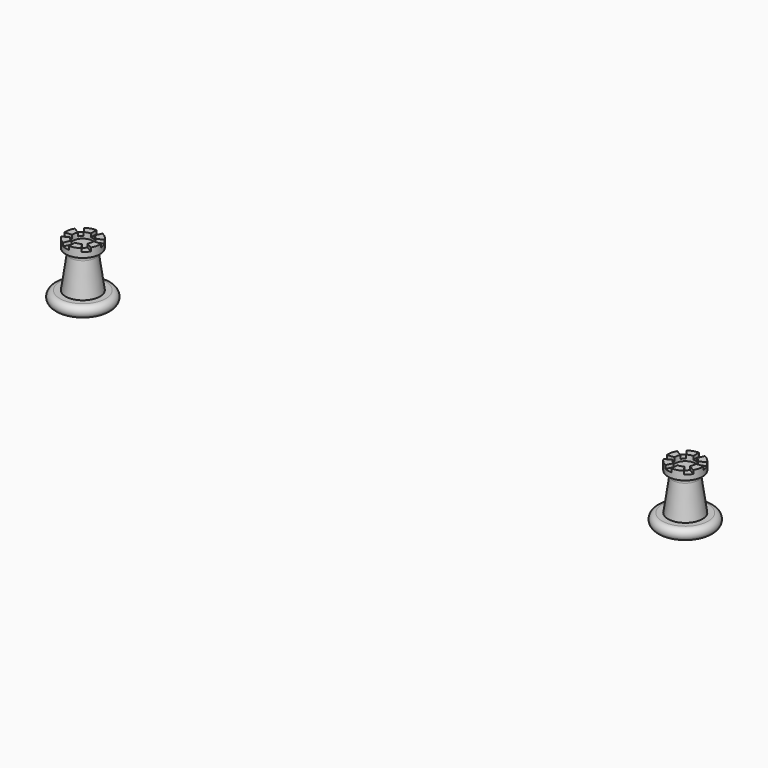
from build123d import *

# Parameters (mm, degrees)
SKETCH011_R        = 4
SKETCH009_R        = 6
SKETCH010_R        = 6
EXTRUDE002_DEPTH   = 3
SKETCH012_R        = 3.5
POCKET_DEPTH       = 5
POCKET001_DEPTH    = 1.2
POLARPATTERN_COUNT = 6
FILLET_R           = 1.5
SKETCH026_R        = 3.05
POCKET007_DEPTH    = 3.1
ARRAY003_X_COUNT   = 2
ARRAY003_X_PITCH   = 210


with BuildPart() as revolution001006:
    # Sketch013 → Revolution001006 (revolve)
    with BuildSketch(Plane.XZ):
        with BuildLine():
            Line((0, 0), (8, 0))
            ThreePointArc((8, 0), (10, 2), (8, 4))
            Line((8, 4), (0, 4))
            Line((0, 4), (0, 0))
        make_face()
    revolve(axis=Axis((0, 0, 0), (0, 0, 1)))


with BuildPart() as loft_body:
    # Sketch011 → Loft section 0
    with BuildSketch(Plane.XY.offset(18)):
        Circle(SKETCH011_R)
    # Sketch009 → Loft section 1
    with BuildSketch(Plane.XY.offset(4)):
        Circle(SKETCH009_R)
    loft()


with BuildPart() as array003:
    # Sketch010 → Extrude002 (new body)
    with BuildSketch(Plane.XY.offset(17)):
        Circle(SKETCH010_R)
    extrude(amount=EXTRUDE002_DEPTH)

    # Sketch012 → Pocket (cut)
    with BuildSketch(Plane.XY.offset(20)):
        Circle(SKETCH012_R)
    extrude(amount=-POCKET_DEPTH, mode=Mode.SUBTRACT)

    # Sketch014 → Pocket001 (cut)
    with BuildSketch(Plane.XY.offset(20)):
        with BuildLine():
            ThreePointArc((2.53571, 5.437847), (1.298638, 5.857776), (0, 6))
            Line((0, 0), (0, 6))
            Line((0, 0), (2.53571, 5.437847))
        make_face()
    pocket001 = extrude(amount=-POCKET001_DEPTH, mode=Mode.SUBTRACT)

    # PolarPattern: Pocket001 ×6 about axis
    polarpattern_axis = Axis((0, 0, 20), (0, 0, 1))
    for i in range(1, POLARPATTERN_COUNT):
        add(pocket001.rotate(polarpattern_axis, i * 360 / POLARPATTERN_COUNT), mode=Mode.SUBTRACT)

    # Fusion002: union Revolution001006, Loft body
    add(revolution001006.part)
    add(loft_body.part)

    # Fillet
    fillet_edges = [array003.edges().sort_by_distance(p)[0] for p in [
        (-4.142857, 0, 17),
    ]]
    fillet(fillet_edges, radius=FILLET_R)

    # Sketch026 → Pocket007 (cut)
    with BuildSketch(Plane(origin=(0, 0, 0), x_dir=(1, 0, 0), z_dir=(0, 0, -1))):
        Circle(SKETCH026_R)
    extrude(amount=-POCKET007_DEPTH, mode=Mode.SUBTRACT)

    # Array003 X: Array003 ×2


with BuildPart() as array003_1:
    add(array003.part)
    with Locations(*[(i * ARRAY003_X_PITCH, 0, 0) for i in range(1, ARRAY003_X_COUNT)]):
        add(array003.part)


solid = array003_1.part
